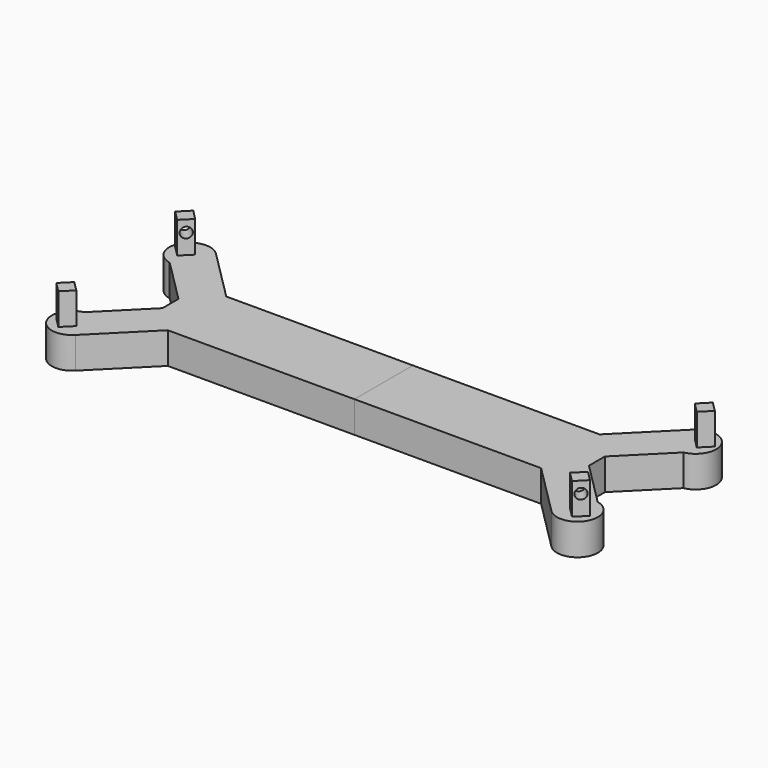
from build123d import *

# Parameters (mm, degrees)
F1_DEPTH = 9.525
F3_DEPTH = 9.525
F6_D     = 3.175
F7_D     = 3.175


with BuildPart() as f1:
    # F0 (on Top) → F1 (new body)
    with BuildSketch(Plane.XY):
        Polygon((-56.580171, -10.570083), (0, -10.570083), (0, 11.583108), (-56.580171, 11.583108), (-64.626686, 11.583108), (-64.626686, 3.531308), (-64.626686, -2.518283), (-64.626686, -10.570083), align=None)
        with BuildLine():
            Line((-72.098054, -26.087966), (-56.580171, -10.570083))
            Line((-56.580171, -10.570083), (-64.626686, -10.570083))
            Line((-64.626686, -10.570083), (-64.626686, -2.518283))
            Line((-64.626686, -2.518283), (-77.847999, -15.739596))
            ThreePointArc((-77.847999, -15.739596), (-72.664613, -16.984937), (-70.369875, -21.796647))
            ThreePointArc((-70.369875, -21.796647), (-70.818146, -24.109763), (-72.098054, -26.087966))
        make_face()
        with BuildLine():
            ThreePointArc((-77.847999, -15.739596), (-81.974608, -24.804125), (-72.098054, -26.087966))
            ThreePointArc((-72.098054, -26.087966), (-70.818146, -24.109763), (-70.369875, -21.796647))
            ThreePointArc((-70.369875, -21.796647), (-72.664613, -16.984937), (-77.847999, -15.739596))
        make_face()
        with BuildLine():
            Line((-64.626686, 11.583108), (-56.580171, 11.583108))
            Line((-56.580171, 11.583108), (-72.221464, 27.224401))
            ThreePointArc((-72.221464, 27.224401), (-70.903293, 25.219759), (-70.441021, 22.865515))
            ThreePointArc((-70.441021, 22.865515), (-72.704054, 18.063672), (-77.847999, 16.752621))
            Line((-77.847999, 16.752621), (-64.626686, 3.531308))
            Line((-64.626686, 3.531308), (-64.626686, 11.583108))
        make_face()
        with BuildLine():
            ThreePointArc((-70.441021, 22.865515), (-70.903293, 25.219759), (-72.221464, 27.224401))
            Line((-72.221464, 27.224401), (-72.308075, 27.311012))
            ThreePointArc((-72.308075, 27.311012), (-82.180089, 25.75822), (-77.847999, 16.752621))
            ThreePointArc((-77.847999, 16.752621), (-72.704054, 18.063672), (-70.441021, 22.865515))
        make_face()
        with BuildLine():
            Line((-72.308075, 27.311012), (-72.221464, 27.224401))
            ThreePointArc((-72.221464, 27.224401), (-72.264556, 27.267919), (-72.308075, 27.311012))
        make_face()
    extrude(amount=F1_DEPTH)

    # F2 (on face) → F3 (join)
    with BuildSketch(Plane.XY.offset(9.525)):
        Polygon((-81.774934, 23.740937), (-78.737025, 20.703029), (-75.701699, 23.738355), (-78.739607, 26.776264), align=None)
        Polygon((-77.847999, -25.463689), (-74.812672, -22.428363), (-77.847999, -19.393036), (-80.883325, -22.428363), align=None)
    extrude(amount=F3_DEPTH)

    # F6 (through all)
    with Locations(Plane(origin=(-48.620517, -48.620517, 0), x_dir=(-0.707107, 0.707107, 0), z_dir=(0.707107, 0.707107, 0))):
        with Locations((39.187601, 15.5448)):
            Hole(F6_D / 2)

    # F7 (through all)
    with Locations(Plane(origin=(-49.720027, 49.720027, 0), x_dir=(0.707107, 0.707107, 0), z_dir=(0.707107, -0.707107, 0))):
        with Locations((-38.889933, 15.540928)):
            Hole(F7_D / 2)


with BuildPart() as f8_1:
    # F8: instance of F1
    add(f1.part.mirror(Plane(origin=(0, 0.506512, 4.7625), x_dir=(0, 1, 0), z_dir=(1, 0, 0))))


solid = Compound([f1.part, f8_1.part])
